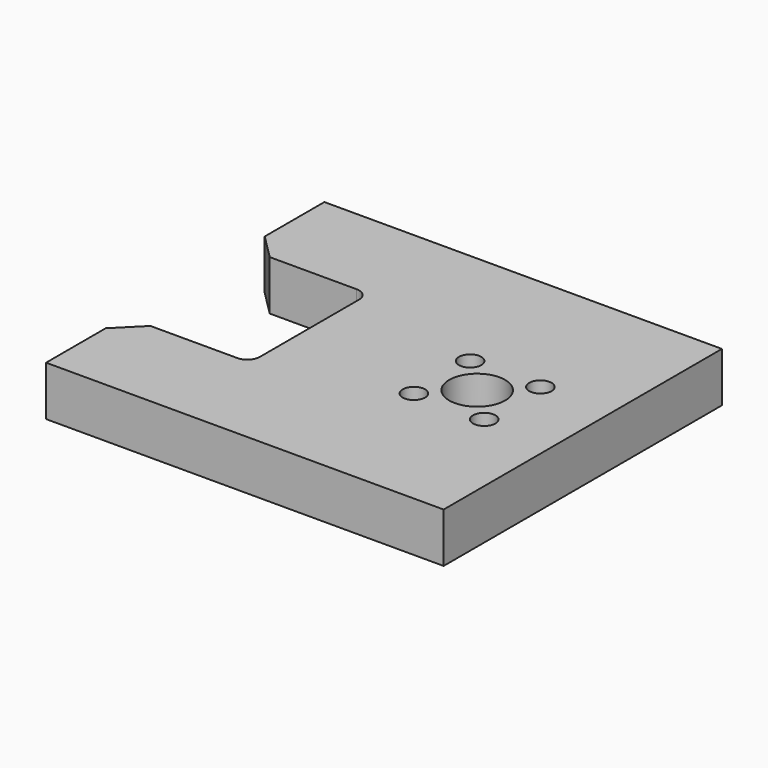
from build123d import *

# Parameters (mm, degrees)
F0_W     = 64
F0_H     = 56
F0_R     = 1.8
F0_R_2   = 4.5
F1_DEPTH = 8
F3_DEPTH = 30
F4_W     = 20
F4_H     = 24
F5_DEPTH = 25
F6_SIZE  = 4
F7_R     = 2


with BuildPart() as f1:
    # F0 (on Top) → F1 (new body)
    with BuildSketch(Plane.XY):
        Rectangle(F0_W, F0_H)
        with Locations((9.3431457505, -5.6568542495)):
            Circle(F0_R, mode=Mode.SUBTRACT)
        with Locations((20.6568542495, -5.6568542495)):
            Circle(F0_R, mode=Mode.SUBTRACT)
        with Locations((15, 0)):
            Circle(F0_R_2, mode=Mode.SUBTRACT)
        with Locations((9.3431457505, 5.6568542495)):
            Circle(F0_R, mode=Mode.SUBTRACT)
        with Locations((20.6568542495, 5.6568542495)):
            Circle(F0_R, mode=Mode.SUBTRACT)
    extrude(amount=F1_DEPTH)

    # F2 (on face) → F3 (cut)
    with BuildSketch(Plane(origin=(-32, 0, 0), x_dir=(0, -1, 0), z_dir=(-1, 0, 0))):
        with BuildLine():
            Line((-24.7241525946, 0), (-19.2758474054, 0))
            ThreePointArc((-19.2758474054, 0), (-22, 2.7241525946), (-24.7241525946, 0))
        make_face()
        with BuildLine():
            ThreePointArc((24.7241525946, 0), (22, 2.7241525946), (19.2758474054, 0))
            Line((19.2758474054, 0), (24.7241525946, 0))
        make_face()
    extrude(amount=-F3_DEPTH, mode=Mode.SUBTRACT)

    # F4 (on face) → F5 (cut)
    with BuildSketch(Plane.XY.offset(8)):
        with Locations((-22, 0)):
            Rectangle(F4_W, F4_H)
    extrude(amount=-F5_DEPTH, mode=Mode.SUBTRACT)

    # F6
    f6_edges = [f1.edges().sort_by_distance(p)[0] for p in [
        (-32, 12, 4),
        (-32, -12, 4),
    ]]
    chamfer(f6_edges, length=F6_SIZE)

    # F7
    f7_edges = [f1.edges().sort_by_distance(p)[0] for p in [
        (-12, 12, 4),
        (-12, -12, 4),
    ]]
    fillet(f7_edges, radius=F7_R)


solid = f1.part
